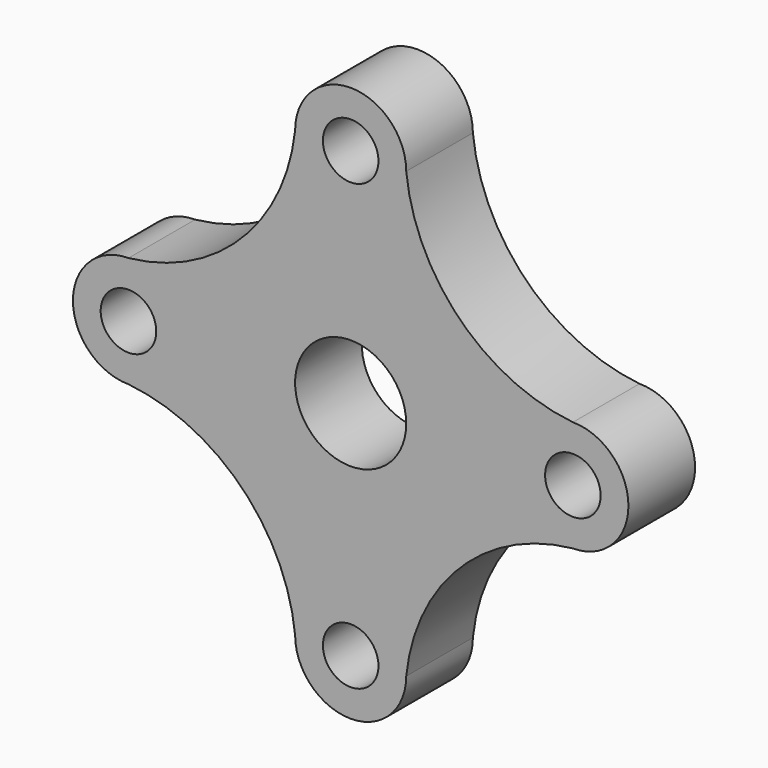
from build123d import *

# Parameters (mm, degrees)
F0_R     = 6.35
F0_R_2   = 12.7
F1_DEPTH = 19.05


with BuildPart() as f1:
    # F0 (on Front) → F1 (new body)
    with BuildSketch(Plane.XZ):
        with BuildLine():
            ThreePointArc((-12.69828, 50.798278), (-25.024948, 25.024947), (-50.79828, 12.698278))
            ThreePointArc((-50.79828, 12.698278), (-63.49828, -0.001722), (-50.79828, -12.701722))
            ThreePointArc((-50.79828, -12.701722), (-24.980044, -24.983485), (-12.69828, -50.801722))
            ThreePointArc((-12.69828, -50.801722), (0.00172, -63.501722), (12.70172, -50.801722))
            ThreePointArc((12.70172, -50.801722), (24.983496, -24.983498), (50.80172, -12.701722))
            ThreePointArc((50.80172, -12.701722), (63.50172, -0.001722), (50.80172, 12.698278))
            ThreePointArc((50.80172, 12.698278), (24.983506, 24.980065), (12.70172, 50.798278))
            ThreePointArc((12.70172, 50.798278), (0.00172, 63.498278), (-12.69828, 50.798278))
        make_face()
        with Locations((0.00172, -50.801722)):
            Circle(F0_R, mode=Mode.SUBTRACT)
        with Locations((-50.79828, -0.001722)):
            Circle(F0_R, mode=Mode.SUBTRACT)
        with Locations((0.00172, -0.001722)):
            Circle(F0_R_2, mode=Mode.SUBTRACT)
        with Locations((0.00172, 50.798278)):
            Circle(F0_R, mode=Mode.SUBTRACT)
        with Locations((50.80172, -0.001722)):
            Circle(F0_R, mode=Mode.SUBTRACT)
    extrude(amount=F1_DEPTH)


solid = f1.part
